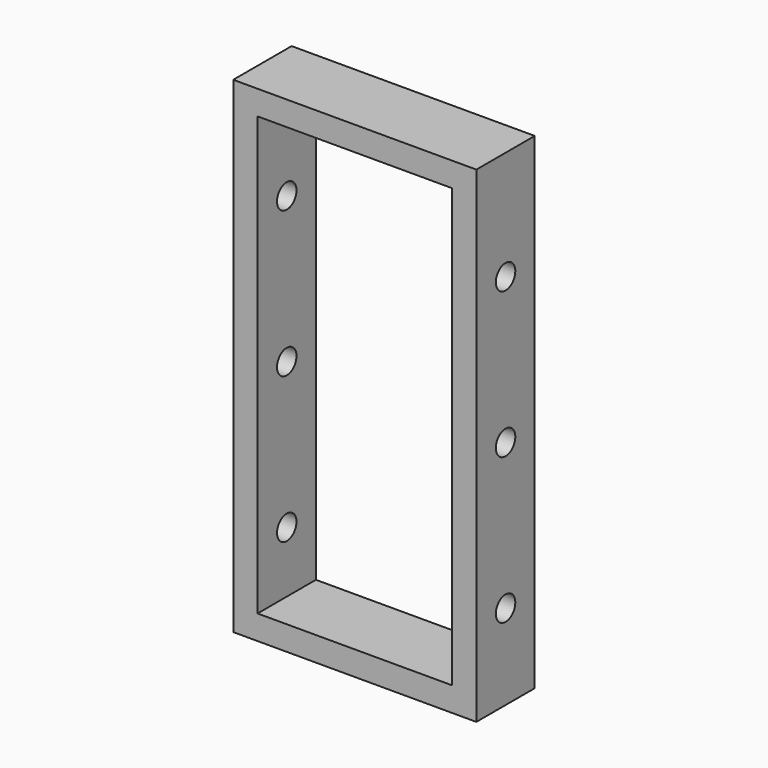
from build123d import *

# Parameters (mm, degrees)
F0_W     = 50
F0_H     = 100
F0_W_2   = 40
F0_H_2   = 90
F1_DEPTH = 15
F2_R     = 2.5
F3_DEPTH = 50.001


with BuildPart() as f1:
    # F0 (on Front) → F1 (new body)
    with BuildSketch(Plane.XZ):
        with Locations((-0.139878, 2.446302)):
            Rectangle(F0_W, F0_H)
        with Locations((-0.139878, 2.446302)):
            Rectangle(F0_W_2, F0_H_2, mode=Mode.SUBTRACT)
    extrude(amount=F1_DEPTH)

    # F2 (on face) → F3 (cut, through all)
    with BuildSketch(Plane(origin=(-25.139878, 0, 0), x_dir=(0, -1, 0), z_dir=(-1, 0, 0))):
        with Locations((7.5, 30)):
            Circle(F2_R)
        with Locations((7.5, 0)):
            Circle(F2_R)
        with Locations((7.5, -30)):
            Circle(F2_R)
    extrude(amount=-F3_DEPTH, mode=Mode.SUBTRACT)


solid = f1.part
